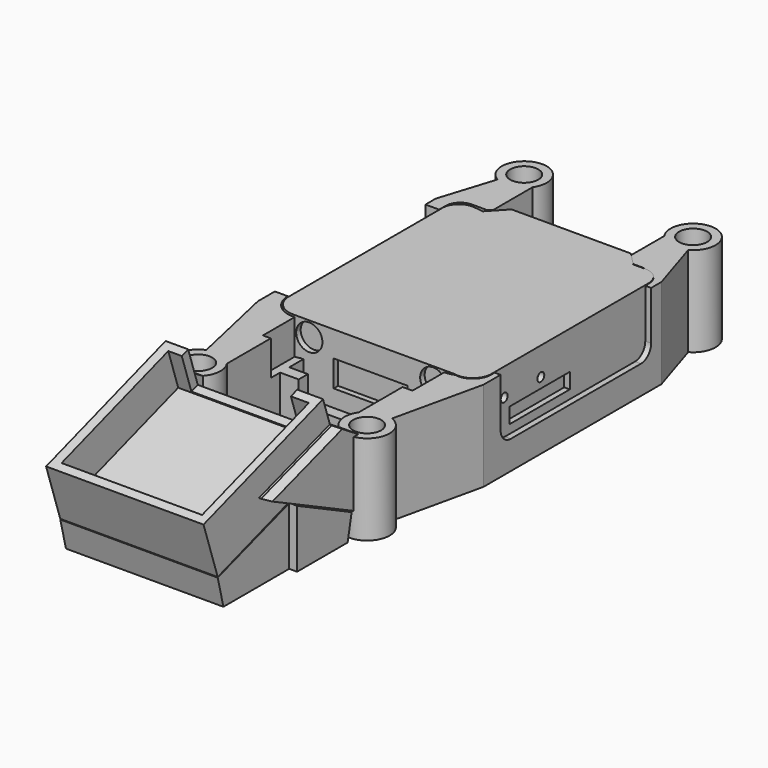
from build123d import *

# Parameters (mm, degrees)
PAD_DEPTH               = 13.5
SKETCH001_R             = 0.768806
SKETCH001_W             = 13.370483
SKETCH001_H             = 2.760866
POCKET_DEPTH            = 1
POCKET001_DEPTH         = 1
SKETCH003_W             = 5.5
SKETCH003_H             = 5.5
POCKET002_DEPTH         = 1
SKETCH005_R             = 2.331872
SKETCH005_W             = 13.087771
SKETCH005_H             = 4.701774
POCKET003_DEPTH         = 1
PAD009_DEPTH            = 14
PAD007_DEPTH            = 5
PAD006_DEPTH            = 12
PAD005_DEPTH            = 3
CHAMFER_SIZE            = 1
PAD004_DEPTH            = 3
CHAMFER001_SIZE         = 1
SKETCH008_W             = 28
SKETCH008_H             = 28
SKETCH008_W_2           = 25
SKETCH008_H_2           = 25
PAD002_DEPTH            = 10
SKETCH009_W             = 26.589014
SKETCH009_H             = 26.178375
PAD003_DEPTH            = 3
SKETCH010_W             = 19.4028
SKETCH010_H             = 7.358509
POCKET006_DEPTH         = 5
BODY002_PLACEMENT_ANGLE = 18.4
BOX002_W                = 17
BOX002_H                = 10
BOX002_DEPTH            = 10
BOX001_W                = 5
BOX001_H                = 10
BOX001_DEPTH            = 10
BOX_W                   = 5
BOX_H                   = 10
BOX_DEPTH               = 10
SKETCH004_R             = 2.5
PAD001_DEPTH            = 16
POCKET004_DEPTH         = 11
POCKET005_DEPTH         = 56
PAD008_DEPTH            = 5


with BuildPart() as body:
    # Sketch → Pad (new body)
    with BuildSketch(Plane.XY):
        with BuildLine():
            Line((-16.254457, 0.670954), (-13.48427, 3.612394))
            Line((-13.48427, 3.612394), (7.73943, 3.612394))
            Line((7.73943, 3.612394), (10.041467, 1.239346))
            Line((10.041467, 1.239346), (12.186962, 1.239346))
            ThreePointArc((15.228091, -1.801783), (14.337365, 0.34862), (12.186962, 1.239346))
            Line((15.228091, -1.801783), (15.228091, -36.819379))
            ThreePointArc((11.260872, -39.987606), (14.006678, -39.357907), (15.228091, -36.819379))
            Line((11.260872, -39.987606), (-17.41981, -39.987606))
            ThreePointArc((-21.271263, -36.365605), (-20.06332, -38.93986), (-17.41981, -39.987606))
            Line((-21.271263, -36.365605), (-21.271263, -2.01894))
            ThreePointArc((-18.009135, 0.879098), (-20.291147, 0.162808), (-21.271263, -2.01894))
            Line((-18.009135, 0.879098), (-16.254457, 0.670954))
        make_face()
    extrude(amount=PAD_DEPTH)

    # Sketch001 (on Face6 of Pad) → Pocket (cut)
    with BuildSketch(Plane.YZ.offset(15.228091)):
        with Locations((-33.926328, 8.644502)):
            Circle(SKETCH001_R)
        with Locations((-25.787597, 8.542287)):
            Circle(SKETCH001_R)
        with Locations((-26.020784, 5.369027)):
            Rectangle(SKETCH001_W, SKETCH001_H)
    extrude(amount=-POCKET_DEPTH, mode=Mode.SUBTRACT)

    # Sketch002 (on Face14 of Pocket) → Pocket001 (cut)
    with BuildSketch(Plane(origin=(-21.271263, 0, 0), x_dir=(0, -1, 0), z_dir=(-1, 0, 0))):
        with BuildLine():
            ThreePointArc((28.926701, 9.366255), (27.156731, 7.596285), (28.926701, 5.826315))
            Line((28.926701, 5.826315), (35.133788, 5.826315))
            ThreePointArc((35.133788, 5.826315), (36.903758, 7.596285), (35.133788, 9.366255))
            Line((28.926701, 9.366255), (35.133788, 9.366255))
        make_face()
    extrude(amount=-POCKET001_DEPTH, mode=Mode.SUBTRACT)

    # Sketch003 (on Face3 of Pocket001) → Pocket002 (cut)
    with BuildSketch(Plane(origin=(0, 3.612394, 0), x_dir=(-1, 0, 0), z_dir=(0, 1, 0))):
        with Locations((2.87242, 6.75)):
            Rectangle(SKETCH003_W, SKETCH003_H)
    extrude(amount=-POCKET002_DEPTH, mode=Mode.SUBTRACT)

    # Sketch005 (on Face16 of Pocket002) → Pocket003 (cut)
    with BuildSketch(Plane.XZ.offset(39.987606)):
        with Locations((-14.586086, 10.84047)):
            Circle(SKETCH005_R)
        with Locations((7.463763, 10.973916)):
            Circle(SKETCH005_R)
        with Locations((-3.700303, 6.598053)):
            Rectangle(SKETCH005_W, SKETCH005_H)
    extrude(amount=-POCKET003_DEPTH, mode=Mode.SUBTRACT)


with BuildPart() as body_1:
    # Body placement: moved
    add(body.part.moved(Location((3.8, 19.3, 2.6))))


with BuildPart() as body008:
    # Sketch016 → Pad009 (new body, symmetric)
    with BuildSketch(Plane.YZ):
        Polygon((-72.531891, 5.07364), (-56.631733, 10.265905), (-56.631733, 0), (-71.258797, 0), align=None)
    extrude(amount=PAD009_DEPTH, both=True)


with BuildPart() as body008_1:
    # Body008 placement: moved
    add(body008.part.moved(Location((0.4, 0, 0))))


with BuildPart() as body006:
    # Sketch014 → Pad007 (new body)
    with BuildSketch(Plane.YZ):
        Polygon((-56.636902, 10.319361), (-44.503479, 4.398024), (-45.399033, 0), (-56.636902, 0), align=None)
    extrude(amount=PAD007_DEPTH)


with BuildPart() as body006_1:
    # Body006 placement: moved
    add(body006.part.moved(Location((10.8, 0, 0))))


with BuildPart() as body005:
    # Sketch013 → Pad006 (new body, symmetric)
    with BuildSketch(Plane.YZ):
        Polygon((-72.511581, 5.021415), (-45.955566, 13.859465), (-48.807812, 0), (-71.256805, 0), align=None)
    extrude(amount=PAD006_DEPTH, both=True)


with BuildPart() as body005_1:
    # Body005 placement: moved
    add(body005.part.moved(Location((0.2, 0, 0))))


with BuildPart() as body004:
    # Sketch012 → Pad005 (new body)
    with BuildSketch(Plane.YZ):
        Polygon((-47.698666, 18.948801), (-42.759785, 15.959027), (-42.759785, 3.782364), (-63.412079, 13.847384), align=None)
    extrude(amount=PAD005_DEPTH)

    # Chamfer
    chamfer_edges = [body004.edges().sort_by_distance(p)[0] for p in [
        (0, -55.555372, 16.398093),
    ]]
    chamfer(chamfer_edges, length=CHAMFER_SIZE)


with BuildPart() as body004_1:
    # Body004 placement: moved
    add(body004.part.moved(Location((-15, 0, 0))))


with BuildPart() as body003:
    # Sketch011 → Pad004 (new body)
    with BuildSketch(Plane.YZ):
        Polygon((-47.698666, 18.948801), (-42.77607, 15.846401), (-42.77607, 3.782364), (-63.412079, 13.847384), align=None)
    extrude(amount=PAD004_DEPTH)

    # Chamfer001
    chamfer001_edges = [body003.edges().sort_by_distance(p)[0] for p in [
        (3, -55.555372, 16.398093),
    ]]
    chamfer(chamfer001_edges, length=CHAMFER001_SIZE)


with BuildPart() as body003_1:
    # Body003 placement: moved
    add(body003.part.moved(Location((12.8, 0, 0))))


with BuildPart() as body002:
    # Sketch008 → Pad002 (new body)
    with BuildSketch(Plane.XY):
        with Locations((1.024991, -60.831741)):
            Rectangle(SKETCH008_W, SKETCH008_H)
        with Locations((1.136504, -60.828854)):
            Rectangle(SKETCH008_W_2, SKETCH008_H_2, mode=Mode.SUBTRACT)
    extrude(amount=PAD002_DEPTH)

    # Sketch009 (on Face9 of Pad002) → Pad003 (join)
    with BuildSketch(Plane(origin=(0, 0, 0), x_dir=(1, 0, 0), z_dir=(0, 0, -1))):
        with Locations((0.951794, 61.178695)):
            Rectangle(SKETCH009_W, SKETCH009_H)
    extrude(amount=-PAD003_DEPTH)

    # Sketch010 (on Face11 of Pad003) → Pocket006 (cut)
    with BuildSketch(Plane.XZ.offset(48.328854)):
        with Locations((0.739347, 6.902725)):
            Rectangle(SKETCH010_W, SKETCH010_H)
    extrude(amount=-POCKET006_DEPTH, mode=Mode.SUBTRACT)


with BuildPart() as body002_1:
    # Body002 placement: moved
    add(body002.part.moved(Location((-0.6, -1.552812, 28.824675))).rotate(Axis((-0.6, -1.552812, 28.824675), (1, 0, 0)), BODY002_PLACEMENT_ANGLE))


with BuildPart() as box002:
    # Box002 → Box002 (new body)
    with BuildSketch(Plane(origin=(-8.4, -32.6, 6), x_dir=(1, 0, 0), z_dir=(0, 0, 1))):
        with Locations((8.5, 5)):
            Rectangle(BOX002_W, BOX002_H)
    extrude(amount=BOX002_DEPTH)


with BuildPart() as box001:
    # Box001 → Box001 (new body)
    with BuildSketch(Plane(origin=(8.5, -28.1, 10.2), x_dir=(1, 0, 0), z_dir=(0, 0, 1))):
        with Locations((2.5, 5)):
            Rectangle(BOX001_W, BOX001_H)
    extrude(amount=BOX001_DEPTH)


with BuildPart() as box:
    # Box → Box (new body)
    with BuildSketch(Plane(origin=(-13.1, -28.1, 9.8), x_dir=(1, 0, 0), z_dir=(0, 0, 1))):
        with Locations((2.5, 5)):
            Rectangle(BOX_W, BOX_H)
    extrude(amount=BOX_DEPTH)


with BuildPart() as cut002:
    # Sketch004 → Pad001 (new body)
    with BuildSketch(Plane.XY):
        with BuildLine():
            ThreePointArc((-11.702826, 30.094026), (-15.906709, 36.254557), (-16.958374, 28.870874))
            Line((-16.958374, 28.870874), (-20.070436, 19.020718))
            Line((-20.070436, 19.020718), (-20.070436, -20.520973))
            Line((-20.070436, -20.520973), (-16.50605, -36.435676))
            ThreePointArc((-16.50605, -36.435676), (-16.149412, -43.972622), (-11.702826, -37.876671))
            Line((-11.702826, -37.876671), (-11.702826, -26.033901))
            Line((-11.702826, -26.033901), (11.740153, -26.033901))
            Line((11.740153, -37.876671), (11.740153, -26.033901))
            ThreePointArc((11.740153, -37.876671), (16.230197, -43.947495), (16.50605, -36.401681))
            Line((20.070436, -20.520973), (16.50605, -36.401681))
            Line((20.070436, 19.020718), (20.070436, -20.520973))
            Line((16.958374, 28.870874), (20.070436, 19.020718))
            ThreePointArc((16.958374, 28.870874), (15.939827, 36.268127), (11.740153, 30.094026))
            Line((11.740153, -23.992449), (11.740153, 30.094026))
            Line((-11.702826, -23.992449), (11.740153, -23.992449))
            Line((-11.702826, -23.992449), (-11.702826, 30.094026))
        make_face()
        with Locations((-15, 32.358678)):
            Circle(SKETCH004_R, mode=Mode.SUBTRACT)
        with Locations((-15, -40.141322)):
            Circle(SKETCH004_R, mode=Mode.SUBTRACT)
        with Locations((15.026969, 32.373684)):
            Circle(SKETCH004_R, mode=Mode.SUBTRACT)
        with Locations((15.047586, -40.126313)):
            Circle(SKETCH004_R, mode=Mode.SUBTRACT)
    extrude(amount=PAD001_DEPTH)

    # Sketch006 (on Face22 of Pad001) → Pocket004 (cut)
    with BuildSketch(Plane.XY.offset(16)):
        with BuildLine():
            Line((-12.314433, 20.787053), (-15.052859, 20.787053))
            ThreePointArc((-15.052859, 20.787053), (-16.847999, 20.060972), (-17.633587, 18.291065))
            Line((-17.633587, 18.291065), (-17.633587, -15.76983))
            ThreePointArc((-17.633587, -15.76983), (-16.378079, -19.88986), (-12.186047, -20.878705))
            Line((-12.186047, -20.878705), (0, -20.878705))
            Line((12.186047, -20.878705), (0, -20.878705))
            ThreePointArc((12.186047, -20.878705), (16.378079, -19.88986), (17.633587, -15.76983))
            Line((17.633587, 18.291065), (17.633587, -15.76983))
            ThreePointArc((17.633587, 18.291065), (16.847999, 20.060972), (15.052859, 20.787053))
            Line((12.314433, 20.787053), (15.052859, 20.787053))
            Line((12.314433, 20.787053), (9.775791, 23.354578))
            Line((9.775791, 23.354578), (0, 23.354578))
            Line((-9.775791, 23.354578), (0, 23.354578))
            Line((-12.314433, 20.787053), (-9.775791, 23.354578))
        make_face()
    extrude(amount=-POCKET004_DEPTH, mode=Mode.SUBTRACT)

    # Sketch007 (on Face12 of Pad001) → Pocket005 (cut)
    with BuildSketch(Plane.YZ.offset(20.070436)):
        with BuildLine():
            Line((-16.736301, 16.575895), (16.736301, 16.575895))
            Line((16.736301, 7.345457), (16.736301, 16.575895))
            ThreePointArc((14.446367, 5.055523), (16.065594, 5.726229), (16.736301, 7.345457))
            Line((-14.446367, 5.055523), (14.446367, 5.055523))
            ThreePointArc((-16.736301, 7.345457), (-16.065594, 5.726229), (-14.446367, 5.055523))
            Line((-16.736301, 16.575895), (-16.736301, 7.345457))
        make_face()
    extrude(amount=-POCKET005_DEPTH, mode=Mode.SUBTRACT)

    # Cut: cut Box
    add(box.part, mode=Mode.SUBTRACT)

    # Cut001: cut Box001
    add(box001.part, mode=Mode.SUBTRACT)

    # Cut002: cut Box002
    add(box002.part, mode=Mode.SUBTRACT)


with BuildPart() as fusion001:
    # Sketch015 → Pad008 (new body)
    with BuildSketch(Plane.YZ):
        Polygon((-56.636902, 10.319361), (-44.503479, 4.398024), (-45.399033, 0), (-56.636902, 0), align=None)
    extrude(amount=PAD008_DEPTH)


with BuildPart() as fusion001_1:
    # Body007 placement: moved
    add(fusion001.part.moved(Location((-15.3, 0, 0))))

    # Fusion: union Body006, Body005, Body004, Body003, Body002, Cut002
    add(body006_1.part)
    add(body005_1.part)
    add(body004_1.part)
    add(body003_1.part)
    add(body002_1.part)
    add(cut002.part)

    # Fusion001: union Body008
    add(body008_1.part)


solid = Compound([body_1.part, fusion001_1.part])
